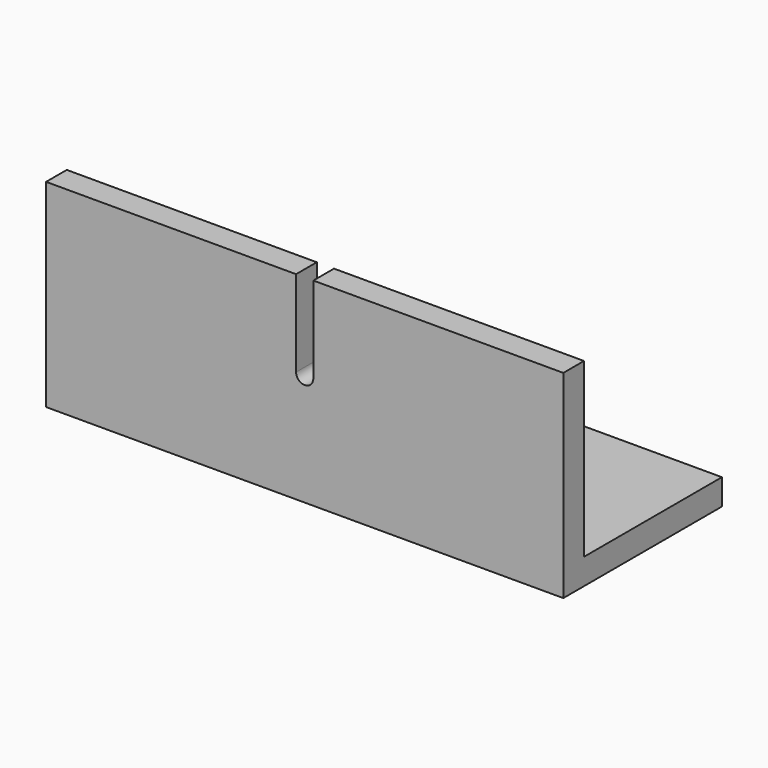
from build123d import *

# Parameters (mm, degrees)
EXTRUDE002_DEPTH = 3
SKETCH001_W      = 60
SKETCH001_H      = 3
EXTRUDE001_DEPTH = 20
SKETCH_W         = 60
SKETCH_H         = 23
SKETCH_R         = 2.5
EXTRUDE_DEPTH    = 3


with BuildPart() as extrude002:
    # Face002 → Extrude002 (new body)
    with BuildSketch(Plane(origin=(30, 0, 17.604991), x_dir=(1, 0, 0), z_dir=(0, 1, 0))):
        with BuildLine():
            Line((-1, -5.395009), (1, -5.395009))
            Line((1, -5.395009), (1, 4.604991))
            ThreePointArc((1, 4.604991), (0, 5.604991), (-1, 4.604991))
            Line((-1, 4.604991), (-1, -5.395009))
        make_face()
    extrude(amount=EXTRUDE002_DEPTH)


with BuildPart() as cut:
    # Sketch001 (on Face7 of Extrude) → Extrude001 (new body)
    with BuildSketch(Plane.XY.offset(3)):
        with Locations((30, 1.5)):
            Rectangle(SKETCH001_W, SKETCH001_H)
    extrude(amount=EXTRUDE001_DEPTH)

    # Cut: cut Extrude002
    add(extrude002.part, mode=Mode.SUBTRACT)


with BuildPart() as fusion:
    # Sketch → Extrude (new body)
    with BuildSketch(Plane.XY):
        with Locations((30, 11.5)):
            Rectangle(SKETCH_W, SKETCH_H)
        with Locations((30, 13)):
            Circle(SKETCH_R, mode=Mode.SUBTRACT)
    extrude(amount=EXTRUDE_DEPTH)

    # Fusion: union Cut
    add(cut.part)


solid = fusion.part
